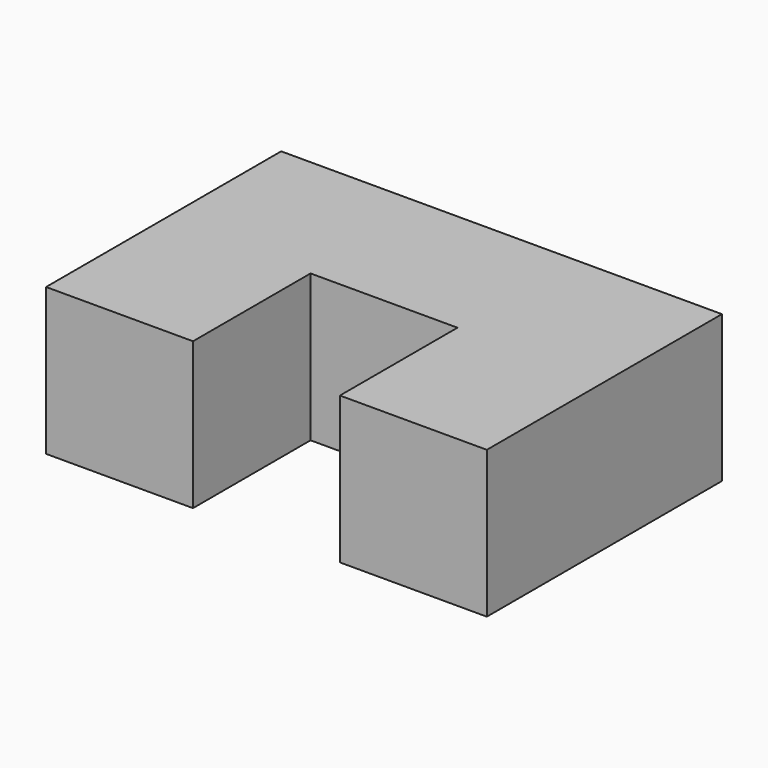
from build123d import *

# Parameters (mm, degrees)
F0_W     = 19.05
F0_H     = 19.05
F1_DEPTH = 19.05
F2_ANGLE = 180


with BuildPart() as f1:
    # F0 (on Top) → F1 (new body)
    with BuildSketch(Plane.XY):
        with Locations((9.525, 9.525)):
            Rectangle(F0_W, F0_H)
        Polygon((19.05, 0), (0, 0), (0, -19.05), (57.15, -19.05), (57.15, 0), (38.1, 0), align=None)
        with Locations((47.625, 9.525)):
            Rectangle(F0_W, F0_H)
    extrude(amount=F1_DEPTH)


with BuildPart() as f1_1:
    # F2: moved
    add(f1.part.rotate(Axis((0, -19.05, 9.525), (0, 0, 1)), F2_ANGLE))


solid = f1_1.part
